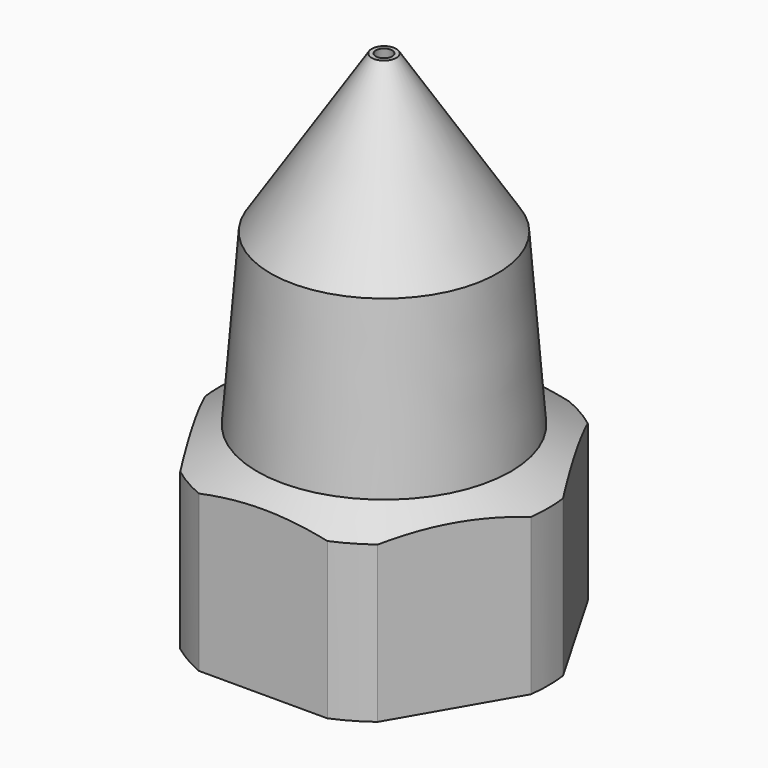
from build123d import *

# Parameters (mm, degrees)
SKETCH001_R         = 14.291544
POCKET_DEPTH        = 24.501
REVOLUTION001_ANGLE = 30
REVOLUTION002_ANGLE = 30
REVOLUTION003_ANGLE = 30
REVOLUTION004_ANGLE = 30


with BuildPart() as part:
    # Sketch → Revolution (revolve)
    with BuildSketch(Plane.XZ):
        with BuildLine():
            Line((-5.3, 0), (-5.3, 6))
            ThreePointArc((-5.3, 6), (-4.244457, 6.413224), (-3.75, 7.433241))
            Line((-3.75, 7.433241), (-3, 17))
            Line((-3, 17), (-1.75, 20.5))
            Line((-1.75, 20.5), (-1.25, 20.5))
            Line((-1.25, 20.5), (-0.4, 24.5))
            Line((-0.4, 24.5), (-0.6, 24.5))
            Line((-5.526565, 16.862743), (-0.6, 24.5))
            Line((-5.526565, 16.862743), (-6.174059, 8.578152))
            Line((-6.174059, 8.578152), (-8, 7.60349))
            Line((-8, 7.60349), (-8, 0))
            Line((-5.3, 0), (-8, 0))
        make_face()
    revolve(axis=Axis((0, 0, 0), (0, 0, 1)))

    # Sketch001 (on Face12 of Revolution) → Pocket (cut, through all)
    with BuildSketch(Plane(origin=(0, 0, 0), x_dir=(1, 0, 0), z_dir=(0, 0, -1))):
        Circle(SKETCH001_R)
        Polygon((8.5, 0), (4.25, 7.361216), (-4.25, 7.361216), (-8.5, 0), (-4.25, -7.361216), (4.25, -7.361216), align=None, mode=Mode.SUBTRACT)
    extrude(amount=-POCKET_DEPTH, mode=Mode.SUBTRACT)

    # Sketch002 → Revolution001 (revolve, symmetric)
    with BuildSketch(Plane.XZ) as revolution001_sk:
        Polygon((-5.5, 0), (-4.5, 0.6), (-5.5, 1.2), (-6.5, 1.2), (-6.5, 0), align=None)
        Polygon((-5.5, 1.5), (-4.5, 2.1), (-5.5, 2.7), (-6.5, 2.7), (-6.5, 1.5), align=None)
        Polygon((-5.5, 3), (-4.5, 3.6), (-5.5, 4.2), (-6.5, 4.2), (-6.5, 3), align=None)
    revolve(axis=Axis((0, 0, 0), (0, 0, 1)), revolution_arc=REVOLUTION001_ANGLE / 2)
    revolve(revolution001_sk.sketch, axis=Axis((0, 0, 0), (0, 0, -1)), revolution_arc=REVOLUTION001_ANGLE / 2)

    # Sketch003 → Revolution002 (revolve, symmetric)
    with BuildSketch(Plane(origin=(0, 0, 0.375), x_dir=(0, 1, 0), z_dir=(1, 0, 0))) as revolution002_sk:
        Polygon((-5.5, 0), (-4.5, 0.6), (-5.5, 1.2), (-6.5, 1.2), (-6.5, 0), align=None)
        Polygon((-5.5, 1.5), (-4.5, 2.1), (-5.5, 2.7), (-6.5, 2.7), (-6.5, 1.5), align=None)
        Polygon((-5.5, 3), (-4.5, 3.6), (-5.5, 4.2), (-6.5, 4.2), (-6.5, 3), align=None)
    revolve(axis=Axis((0, 0, 0.375), (0, 0, 1)), revolution_arc=REVOLUTION002_ANGLE / 2)
    revolve(revolution002_sk.sketch, axis=Axis((0, 0, 0.375), (0, 0, -1)), revolution_arc=REVOLUTION002_ANGLE / 2)

    # Sketch004 → Revolution003 (revolve, symmetric)
    with BuildSketch(Plane(origin=(0, 0, 0.75), x_dir=(-1, 0, 0), z_dir=(0, 1, 0))) as revolution003_sk:
        Polygon((-5.5, 0), (-4.5, 0.6), (-5.5, 1.2), (-6.5, 1.2), (-6.5, 0), align=None)
        Polygon((-5.5, 1.5), (-4.5, 2.1), (-5.5, 2.7), (-6.5, 2.7), (-6.5, 1.5), align=None)
        Polygon((-5.5, 3), (-4.5, 3.6), (-5.5, 4.2), (-6.5, 4.2), (-6.5, 3), align=None)
    revolve(axis=Axis((0, 0, 0.75), (0, 0, 1)), revolution_arc=REVOLUTION003_ANGLE / 2)
    revolve(revolution003_sk.sketch, axis=Axis((0, 0, 0.75), (0, 0, -1)), revolution_arc=REVOLUTION003_ANGLE / 2)

    # Sketch005 → Revolution004 (revolve, symmetric)
    with BuildSketch(Plane(origin=(0, 0, 1.125), x_dir=(0, -1, 0), z_dir=(-1, 0, 0))) as revolution004_sk:
        Polygon((-5.5, 0), (-4.5, 0.6), (-5.5, 1.2), (-6.5, 1.2), (-6.5, 0), align=None)
        Polygon((-5.5, 1.5), (-4.5, 2.1), (-5.5, 2.7), (-6.5, 2.7), (-6.5, 1.5), align=None)
        Polygon((-5.5, 3), (-4.5, 3.6), (-5.5, 4.2), (-6.5, 4.2), (-6.5, 3), align=None)
    revolve(axis=Axis((0, 0, 1.125), (0, 0, 1)), revolution_arc=REVOLUTION004_ANGLE / 2)
    revolve(revolution004_sk.sketch, axis=Axis((0, 0, 1.125), (0, 0, -1)), revolution_arc=REVOLUTION004_ANGLE / 2)


solid = part.part
